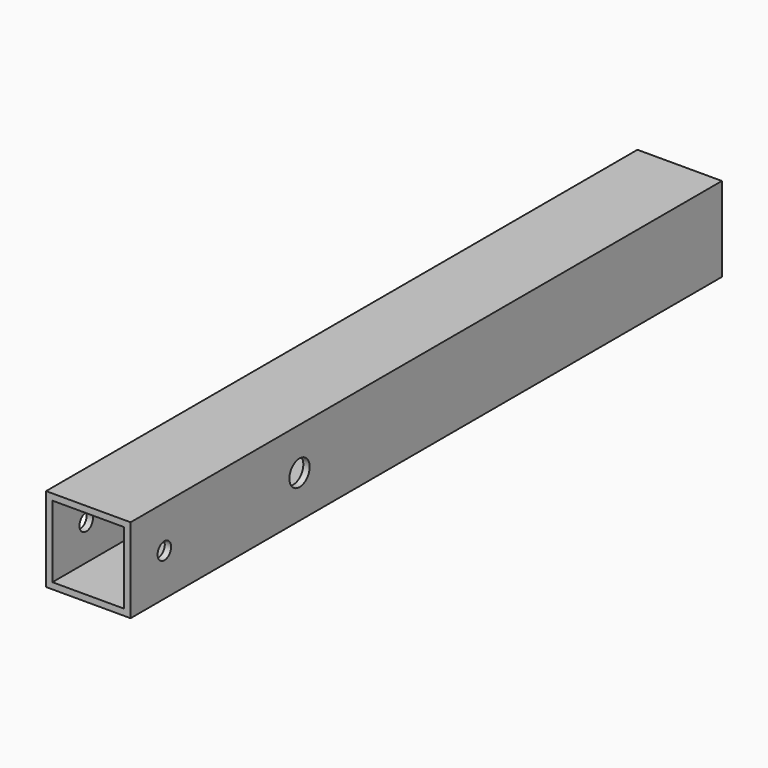
from build123d import *

# Parameters (mm, degrees)
F0_W     = 20
F0_H     = 20
F0_W_2   = 17
F0_H_2   = 17
F1_DEPTH = 175
F3_D     = 4
F5_D     = 6


with BuildPart() as f1:
    # F0 (on Front) → F1 (new body)
    with BuildSketch(Plane.XZ):
        Rectangle(F0_W, F0_H)
        Rectangle(F0_W_2, F0_H_2, mode=Mode.SUBTRACT)
    extrude(amount=F1_DEPTH)

    # F3 (through all)
    with Locations(Plane.YZ.offset(10)):
        with Locations((-165, 0)):
            Hole(F3_D / 2)

    # F5 (through all)
    with Locations(Plane.YZ.offset(10)):
        with Locations((-125, 0)):
            Hole(F5_D / 2)


solid = f1.part
